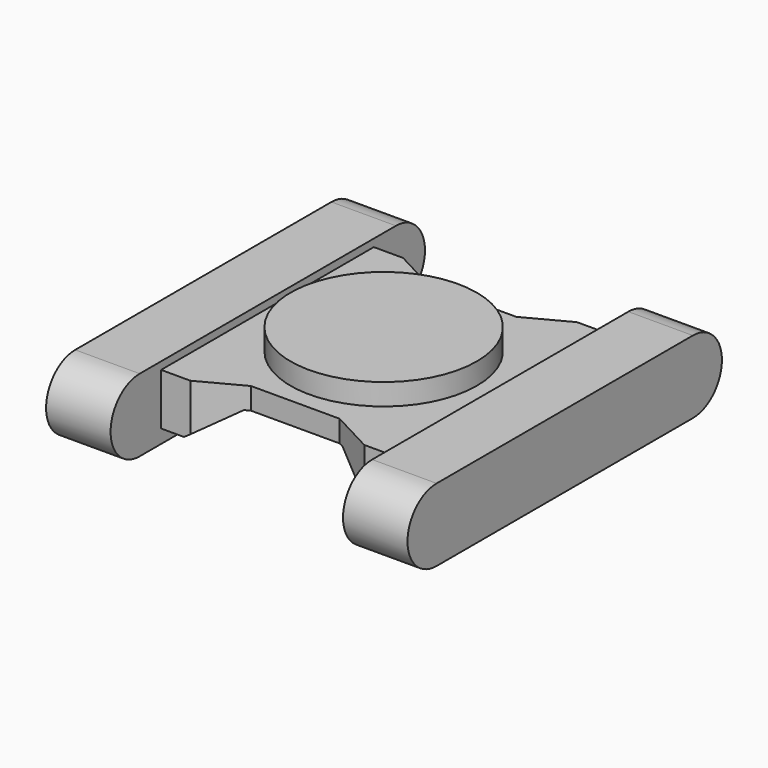
from build123d import *

# Parameters (mm, degrees)
F0_R     = 21.6611468636
F1_DEPTH = 12
F5_DEPTH = 15
F8_DEPTH = 32.9
F9_DEPTH = 5


with BuildPart() as f1:
    # F0 (on Top) → F1 (new body)
    with BuildSketch(Plane.XY):
        Polygon((-20.2222224325, 30.916666612), (-27.0277783275, 30.916666612), (-27.0277783275, 0), (-27.0277783275, -30.916666612), (-20.2222224325, -30.916666612), (-10.3055555373, -25.6666671485), (0, -25.6666671485), (10.3055555373, -25.6666671485), (20.2222224325, -30.916666612), (27.0277783275, -30.916666612), (27.0277783275, 0), (27.0277783275, 30.916666612), (20.2222224325, 30.916666612), (10.3055555373, 25.6666671485), (0, 25.6666671485), (-10.3055555373, 25.6666671485), align=None)
        Circle(F0_R, mode=Mode.SUBTRACT)
        Circle(F0_R)
    extrude(amount=-F1_DEPTH)

    # F4 (on plane+point) → F5 (join)
    with BuildSketch(Plane(origin=(-27.0277783275, 0, 0), x_dir=(0, -1, 0), z_dir=(-1, 0, 0))):
        with BuildLine():
            ThreePointArc((-37.3333357275, 1.750000054), (-45.7916693995, -6.708333618), (-37.3333357275, -15.16666729))
            Line((-37.3333357275, -15.16666729), (37.138890475, -15.16666729))
            ThreePointArc((37.138890475, -15.16666729), (45.5972241471, -6.708333618), (37.138890475, 1.750000054))
            Line((37.138890475, 1.750000054), (-37.3333357275, 1.750000054))
        make_face()
    extrude(amount=F5_DEPTH)

    # F6: F1 across plane


with BuildPart() as f1_1:
    add(f1.part)
    add(f1.part.mirror(Plane.YZ))

    # F7 (on Front) → F8 (cut, symmetric)
    with BuildSketch(Plane.XZ):
        Polygon((11.4722223952, -5.0555560738), (0, -5.0555560738), (-11.4722223952, -5.0555560738), (-24.1111125797, -13.6111117899), (0, -13.6111117899), (24.1111125797, -13.6111117899), align=None)
    extrude(amount=F8_DEPTH, both=True, mode=Mode.SUBTRACT)

    # F0 (on Top) → F9 (join)
    with BuildSketch(Plane.XY):
        Circle(F0_R)
    extrude(amount=F9_DEPTH)


solid = f1_1.part
